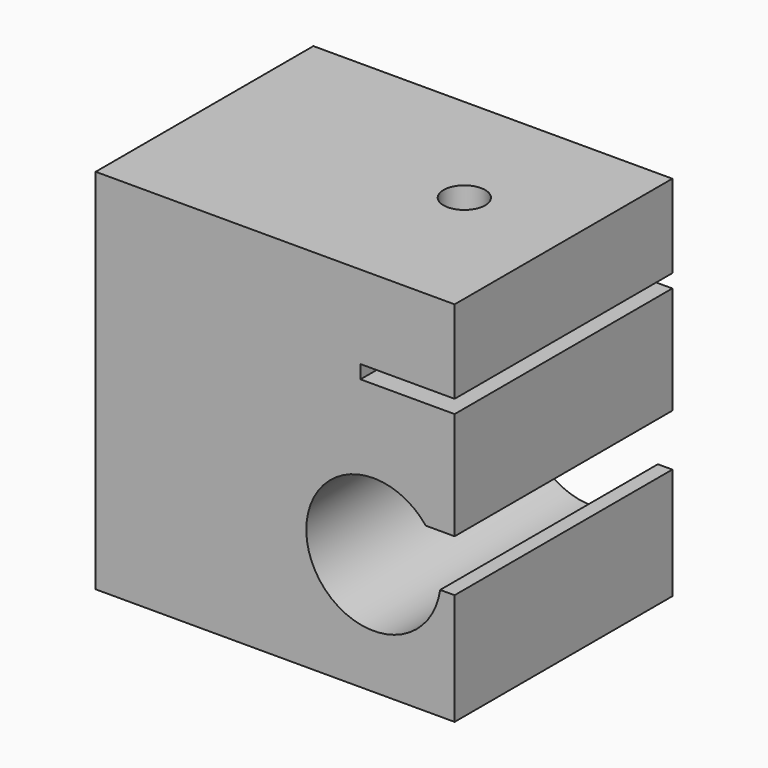
from build123d import *

# Parameters (mm, degrees)
F1_DEPTH = 50.8
F2_W     = 67
F2_H     = 50.8
F2_R     = 3.887383
F3_DEPTH = 7.62


with BuildPart() as f1:
    # F0 (on Front) → F1 (new body)
    with BuildSketch(Plane.XZ):
        with BuildLine():
            Line((8.097237, 2.266741), (-58.902763, 2.266741))
            Line((-58.902763, 2.266741), (-58.902763, -58.733259))
            Line((-58.902763, -58.733259), (8.097237, -58.733259))
            Line((8.097237, -58.733259), (8.097237, -37.91259))
            Line((8.097237, -37.91259), (5.399642, -37.91259))
            ThreePointArc((5.399642, -37.91259), (-19.132664, -39.489125), (2.721969, -28.233259))
            Line((2.721969, -28.233259), (8.097237, -28.233259))
            Line((8.097237, -28.233259), (8.097237, -8.149563))
            Line((8.097237, -8.149563), (-9.469079, -8.149563))
            Line((-9.469079, -8.149563), (-9.469079, -5.638948))
            Line((-9.469079, -5.638948), (8.097237, -5.638948))
            Line((8.097237, -5.638948), (8.097237, 2.266741))
        make_face()
    extrude(amount=F1_DEPTH)

    # F2 (on face) → F3 (join)
    with BuildSketch(Plane.XY.offset(2.266741)):
        with Locations((-25.402763, -25.4)):
            Rectangle(F2_W, F2_H)
        with Locations((-11.831898, -23.617744)):
            Circle(F2_R, mode=Mode.SUBTRACT)
    extrude(amount=F3_DEPTH)


solid = f1.part
